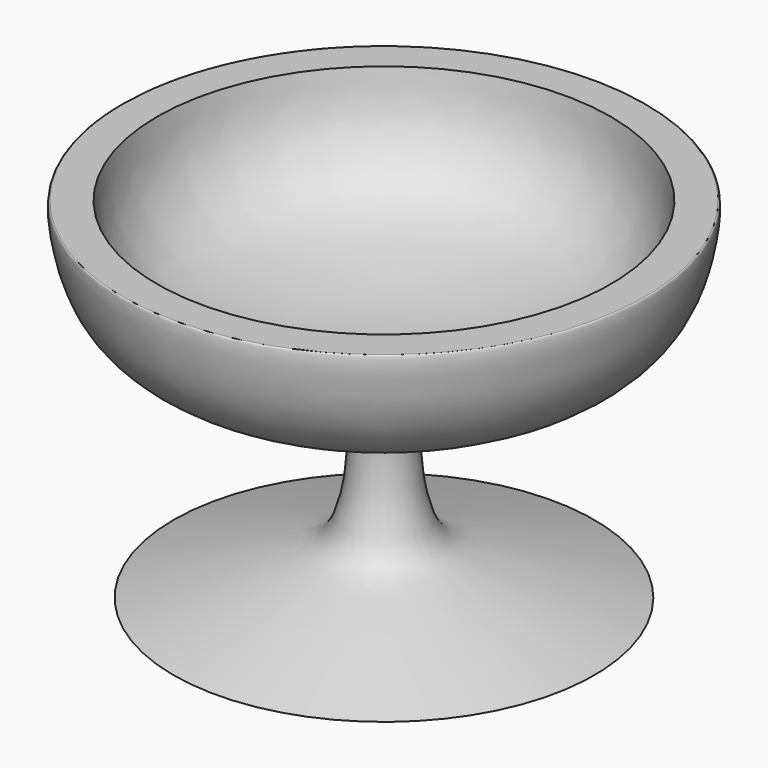
from build123d import *


with BuildPart() as f1:
    # F0 (on Front) → F1 (revolve)
    with BuildSketch(Plane.XZ):
        with BuildLine():
            Line((-26.9449483603, 0), (0, 0))
            Line((0, 0), (0, 34.0019613504))
            add(Edge.make_bspline(
                [(-35.376701504, 54.5314438641), (-35.1334500904, 52.1661048529), (-34.6498077551, 47.4632418082), (-30.6908712831, 41.2583778923), (-25.1341054141, 37.8417062864), (-15.6299020213, 35.5601602115), (-9.4150707023, 34.3740033813), (-3.3225162078, 34.1332525236), (0, 34.0019613504)],
                knots=[0, 0, 0, 0, 0.1609104639, 0.3199287166, 0.4741868838, 0.6607171956, 0.814975374, 1, 1, 1, 1], degree=3))
            Line((-35.376701504, 54.5314438641), (-40.6923703849, 54.5314438641))
            add(Edge.make_bspline(
                [(-32.8105166554, 0), (-25.259807926, 2.3716047717), (-13.2093769887, 6.1565288809), (-4.9473363439, 8.2102444173), (-3.3825027765, 29.2860425099), (-10.5145165406, 31.1913860986), (-26.9878732098, 32.8558672694), (-39.8236147405, 40.9440543029), (-41.2755956877, 54.3318731223), (-40.7606953421, 54.508064113), (-40.6923703849, 54.5314438641)],
                knots=[0, 0, 0, 0, 0.1777148572, 0.2836211395, 0.4468970505, 0.5409013313, 0.6975904278, 0.8508537577, 0.9802089653, 1, 1, 1, 1], degree=3))
            Line((-32.8105166554, 0), (-26.9449483603, 0))
        make_face()
    revolve(axis=Axis((0, 0, 17.0009806752), (0, 0, -1)))


solid = f1.part
